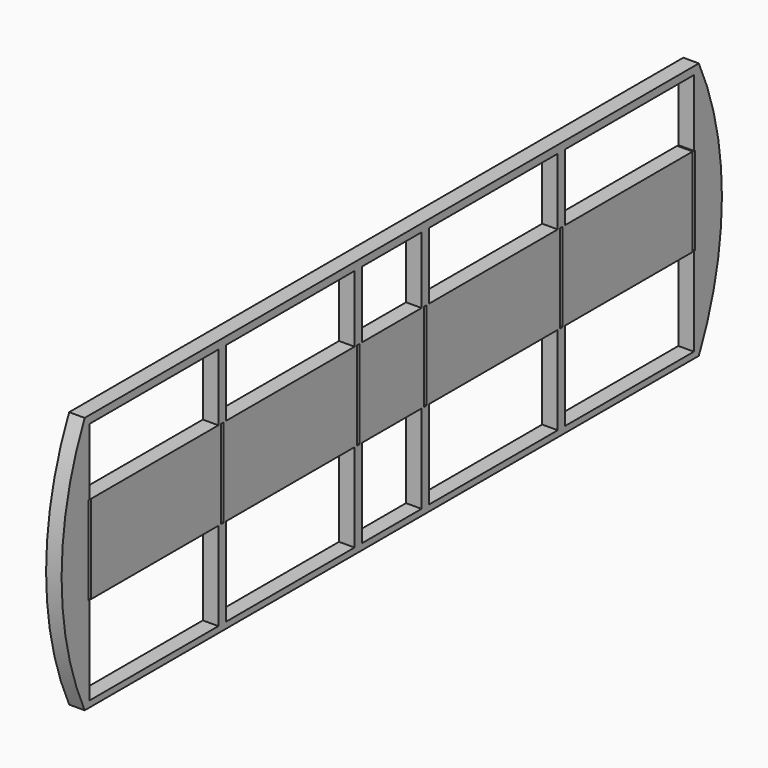
from build123d import *

# Parameters (mm, degrees)
F0_W     = 10.375
F0_H     = 5.7
F0_W_2   = 4.8
F0_H_2   = 4.3
F1_DEPTH = 1
F2_W     = 0.2
F2_H     = 5.7
F3_DEPTH = 1


with BuildPart() as f1:
    # F0 (on Right) → F1 (new body)
    with BuildSketch(Plane.YZ):
        with BuildLine():
            Line((-49.5, 0), (0, 0))
            ThreePointArc((0, 0), (1.86, 8.3), (0, 16.6))
            Line((0, 16.6), (-49.5, 16.6))
            ThreePointArc((-49.5, 16.6), (-51.36, 8.3), (-49.5, 0))
        make_face()
        with Locations((-43.9125, 3.25)):
            Rectangle(F0_W, F0_H, mode=Mode.SUBTRACT)
        with Locations((-32.9375, 3.25)):
            Rectangle(F0_W, F0_H, mode=Mode.SUBTRACT)
        with Locations((-24.75, 3.25)):
            Rectangle(F0_W_2, F0_H, mode=Mode.SUBTRACT)
        with Locations((-16.5625, 3.25)):
            Rectangle(F0_W, F0_H, mode=Mode.SUBTRACT)
        with Locations((-5.5875, 3.25)):
            Rectangle(F0_W, F0_H, mode=Mode.SUBTRACT)
        with Locations((-43.9125, 13.95)):
            Rectangle(F0_W, F0_H_2, mode=Mode.SUBTRACT)
        with Locations((-32.9375, 13.95)):
            Rectangle(F0_W, F0_H_2, mode=Mode.SUBTRACT)
        with Locations((-24.75, 13.95)):
            Rectangle(F0_W_2, F0_H_2, mode=Mode.SUBTRACT)
        with Locations((-16.5625, 13.95)):
            Rectangle(F0_W, F0_H_2, mode=Mode.SUBTRACT)
        with Locations((-5.5875, 13.95)):
            Rectangle(F0_W, F0_H_2, mode=Mode.SUBTRACT)
    extrude(amount=F1_DEPTH)

    # F2 (on face) → F3 (cut, through all)
    with BuildSketch(Plane.YZ.offset(1)):
        with Locations((-49.1, 8.95)):
            Rectangle(F2_W, F2_H)
        with Locations((-38.425, 8.95)):
            Rectangle(F2_W, F2_H)
        with Locations((-27.45, 8.95)):
            Rectangle(F2_W, F2_H)
        with Locations((-22.05, 8.95)):
            Rectangle(F2_W, F2_H)
        with Locations((-11.075, 8.95)):
            Rectangle(F2_W, F2_H)
        with Locations((-0.4, 8.95)):
            Rectangle(F2_W, F2_H)
    extrude(amount=-F3_DEPTH, mode=Mode.SUBTRACT)


solid = f1.part
